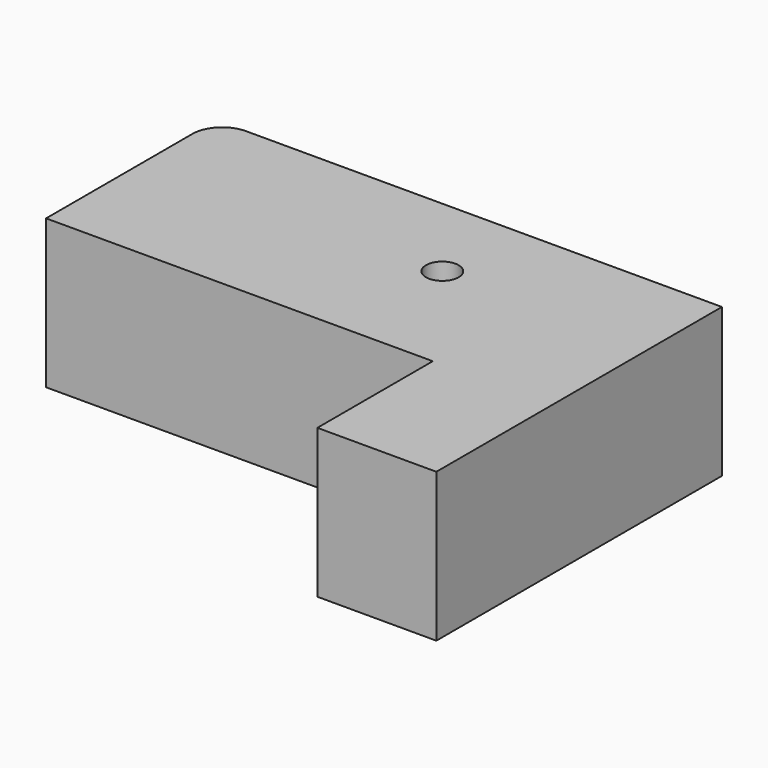
from build123d import *

# Parameters (mm, degrees)
F1_DEPTH = 25
F3_D     = 5.5
F3_DEPTH = 12
F3_TIP   = 1.6523667023


with BuildPart() as f1:
    # F0 (on Top) → F1 (new body)
    with BuildSketch(Plane.XY):
        with BuildLine():
            Line((20, 35.7499521262), (-60, 35.7499521262))
            ThreePointArc((-60, 35.7499521262), (-63.5355339059, 34.2854860321), (-65, 30.7499521262))
            Line((-65, 30.7499521262), (-65, 0))
            Line((-65, 0), (0, 0))
            Line((0, 0), (0, -24.2500478738))
            Line((0, -24.2500478738), (20, -24.2500478738))
            Line((20, -24.2500478738), (20, 35.7499521262))
        make_face()
    extrude(amount=F1_DEPTH)

    # F3
    with Locations(Plane.XY.offset(25)):
        with Locations((-15, 20.7499521262)):
            Hole(F3_D / 2, depth=F3_DEPTH)
            with Locations((0, 0, -(F3_DEPTH + F3_TIP / 2))):  # 118° drill point
                Cone(0, F3_D / 2, F3_TIP, mode=Mode.SUBTRACT)


solid = f1.part
